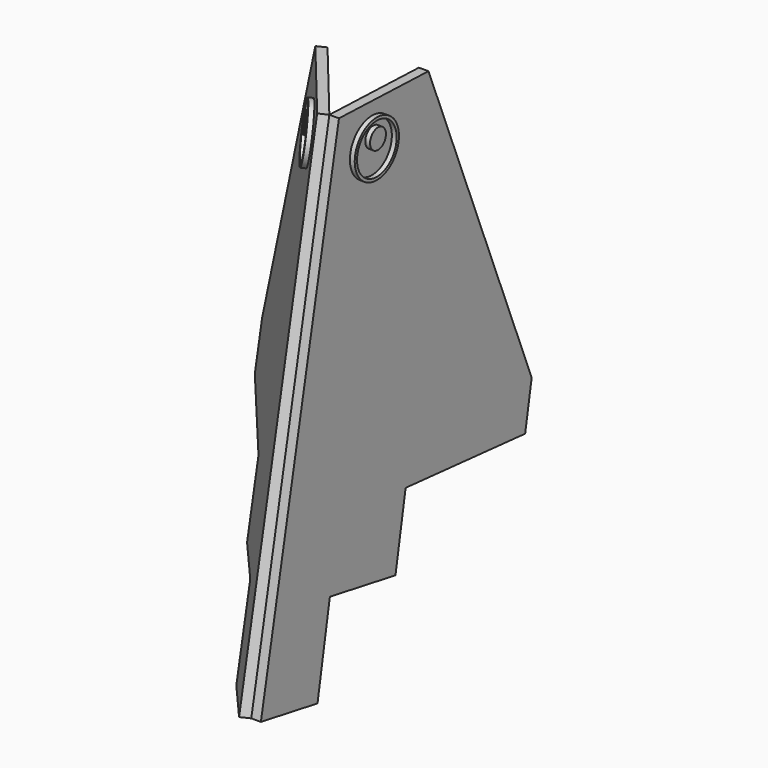
from build123d import *

# Parameters (mm, degrees)
F0_R     = 36.584827005
F1_DEPTH = 12.7
F0_R_2   = 32.774827005
F2_DEPTH = 19.05
F0_R_3   = 13.1541852918
F3_DEPTH = 12.7
F6_ANGLE = 40
F9_ANGLE = 10


with BuildPart() as f1:
    # F0 (on Right) → F1 (new body)
    with BuildSketch(Plane.YZ):
        Polygon((-16.5140610122, 19.2037381535), (-258.4971072476, 409.100839054), (-258.4971072476, -156.4717075028), (-214.116718842, -156.4717075028), (-214.116718842, -60.0057604196), (-16.5140610122, -42.7360365077), align=None)
        Polygon((-258.4971072476, 409.100839054), (-405.1067345225, 388.5953475275), (-419.2893126314, -274.1222833629), (-324.2465086372, -274.1222833629), (-324.2465086372, -156.4717075028), (-258.4971072476, -156.4717075028), align=None)
        with Locations((-341.6033089161, 343.3591723442)):
            Circle(F0_R, mode=Mode.SUBTRACT)
    extrude(amount=F1_DEPTH)

    # F0 (on Right) → F2 (join)
    with BuildSketch(Plane.YZ):
        with Locations((-341.6033089161, 343.3591723442)):
            Circle(F0_R)
        with Locations((-341.6033089161, 343.3591723442)):
            Circle(F0_R_2, mode=Mode.SUBTRACT)
    extrude(amount=F2_DEPTH)


with BuildPart() as f2:
    # F0 (on Right) → F2, piece 2 (new body)
    with BuildSketch(Plane.YZ):
        with Locations((-341.6033089161, 354.4649779797)):
            Circle(F0_R_3)
    extrude(amount=F2_DEPTH)


with BuildPart() as f3:
    # F0 (on Right) → F3 (new body)
    with BuildSketch(Plane.YZ):
        with Locations((-341.6033089161, 343.3591723442)):
            Circle(F0_R_2)
        with Locations((-341.6033089161, 354.4649779797)):
            Circle(F0_R_3, mode=Mode.SUBTRACT)
    extrude(amount=F3_DEPTH)


with BuildPart() as f4_1:
    # F4: instance of F2
    add(f2.part.mirror(Plane.YZ))


with BuildPart() as f4_2:
    # F4: instance of F3
    add(f3.part.mirror(Plane.YZ))


with BuildPart() as f4_3:
    # F4: instance of F1
    add(f1.part.mirror(Plane.YZ))


with BuildPart() as f4_3_1:
    # F5: moved
    add(f4_3.part.moved(Location((-101.6, 0, 0))))


with BuildPart() as f4_2_1:
    # F5: moved
    add(f4_2.part.moved(Location((-101.6, 0, 0))))


with BuildPart() as f4_1_1:
    # F5: moved
    add(f4_1.part.moved(Location((-101.6, 0, 0))))


with BuildPart() as f4_3_2:
    # F6: moved
    add(f4_3_1.part.rotate(Axis((-101.6, -412.198023577, 57.2365320823), (0, 0.021395736, 0.999771085)), F6_ANGLE))


with BuildPart() as f4_1_2:
    # F6: moved
    add(f4_1_1.part.rotate(Axis((-101.6, -412.198023577, 57.2365320823), (0, 0.021395736, 0.999771085)), F6_ANGLE))


with BuildPart() as f4_2_2:
    # F6: moved
    add(f4_2_1.part.rotate(Axis((-101.6, -412.198023577, 57.2365320823), (0, 0.021395736, 0.999771085)), F6_ANGLE))


with BuildPart() as f4_1_3:
    # F7: moved
    add(f4_1_2.part.moved(Location((101.6, 0, 0))))


with BuildPart() as f4_3_3:
    # F7: moved
    add(f4_3_2.part.moved(Location((101.6, 0, 0))))


with BuildPart() as f4_2_3:
    # F7: moved
    add(f4_2_2.part.moved(Location((101.6, 0, 0))))


with BuildPart() as f4_1_4:
    # F8: moved
    add(f4_1_3.part.moved(Location((63.5, 317.5, -259.08))))


with BuildPart() as f1_1:
    # F8: moved
    add(f1.part.moved(Location((63.5, 317.5, -259.08))))


with BuildPart() as f3_1:
    # F8: moved
    add(f3.part.moved(Location((63.5, 317.5, -259.08))))


with BuildPart() as f4_3_4:
    # F8: moved
    add(f4_3_3.part.moved(Location((63.5, 317.5, -259.08))))


with BuildPart() as f4_2_4:
    # F8: moved
    add(f4_2_3.part.moved(Location((63.5, 317.5, -259.08))))


with BuildPart() as f2_1:
    # F8: moved
    add(f2.part.moved(Location((63.5, 317.5, -259.08))))


with BuildPart() as f1_2:
    # F9: moved
    add(f1_1.part.rotate(Axis((69.85, -87.6067345225, 129.5153475275), (-1, 0, 0)), F9_ANGLE))


with BuildPart() as f3_2:
    # F9: moved
    add(f3_1.part.rotate(Axis((69.85, -87.6067345225, 129.5153475275), (-1, 0, 0)), F9_ANGLE))


with BuildPart() as f2_2:
    # F9: moved
    add(f2_1.part.rotate(Axis((69.85, -87.6067345225, 129.5153475275), (-1, 0, 0)), F9_ANGLE))


with BuildPart() as f4_3_5:
    # F9: moved
    add(f4_3_4.part.rotate(Axis((69.85, -87.6067345225, 129.5153475275), (-1, 0, 0)), F9_ANGLE))


with BuildPart() as f4_1_5:
    # F9: moved
    add(f4_1_4.part.rotate(Axis((69.85, -87.6067345225, 129.5153475275), (-1, 0, 0)), F9_ANGLE))


with BuildPart() as f4_2_5:
    # F9: moved
    add(f4_2_4.part.rotate(Axis((69.85, -87.6067345225, 129.5153475275), (-1, 0, 0)), F9_ANGLE))


solid = Compound([f1_2.part, f3_2.part, f2_2.part, f4_3_5.part, f4_1_5.part, f4_2_5.part])
